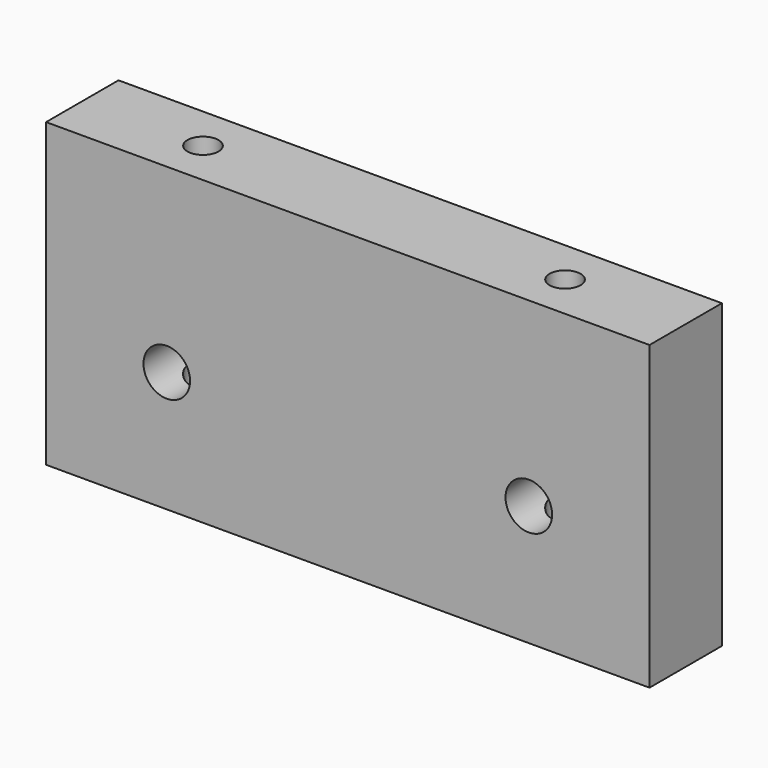
from build123d import *

# Parameters (mm, degrees)
F0_W     = 127
F0_H     = 63.5
F1_DEPTH = 9.525
F3_D     = 9.8044
F5_D     = 6.5278


with BuildPart() as f1:
    # F0 (on Front) → F1 (new body, symmetric)
    with BuildSketch(Plane.XZ):
        Rectangle(F0_W, F0_H)
    extrude(amount=F1_DEPTH, both=True)

    # F3 (through all)
    with Locations(Plane.XZ.offset(9.525)):
        with Locations((-38.1, -6.35), (38.1, -6.35)):
            Hole(F3_D / 2)

    # F5 (through all)
    with Locations(Plane(origin=(0, 0, -31.75), x_dir=(1, 0, 0), z_dir=(0, 0, -1))):
        with Locations((-38.1, 0), (38.1, 0)):
            Hole(F5_D / 2)


solid = f1.part
